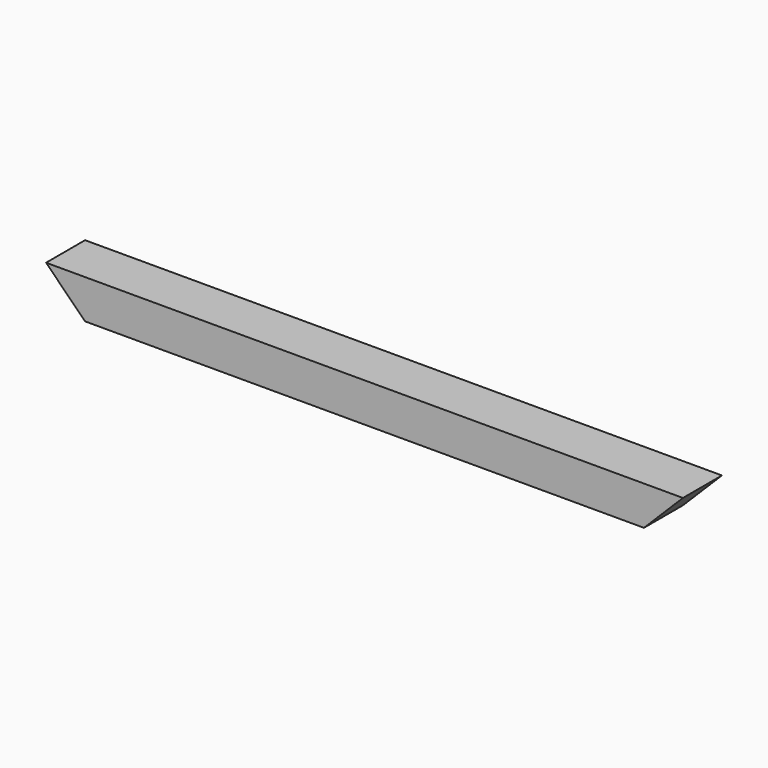
from build123d import *

# Parameters (mm, degrees)
F0_W     = 95.25
F0_H     = 76.2
F1_DEPTH = 1244.6
F3_DEPTH = 95.251


with BuildPart() as f1:
    # F0 (on Right) → F1 (new body)
    with BuildSketch(Plane.YZ):
        with Locations((-47.625, -38.1)):
            Rectangle(F0_W, F0_H)
    extrude(amount=F1_DEPTH)

    # F2 (on face) → F3 (cut, through all)
    with BuildSketch(Plane(origin=(0, 0, 0), x_dir=(-1, 0, 0), z_dir=(0, 1, 0))):
        Polygon((-1168.4, -76.2), (-1244.6, 0), (-1244.6, -76.2), align=None)
        Polygon((0, -76.2), (0, 0), (-76.2, -76.2), align=None)
    extrude(amount=-F3_DEPTH, mode=Mode.SUBTRACT)


solid = f1.part
